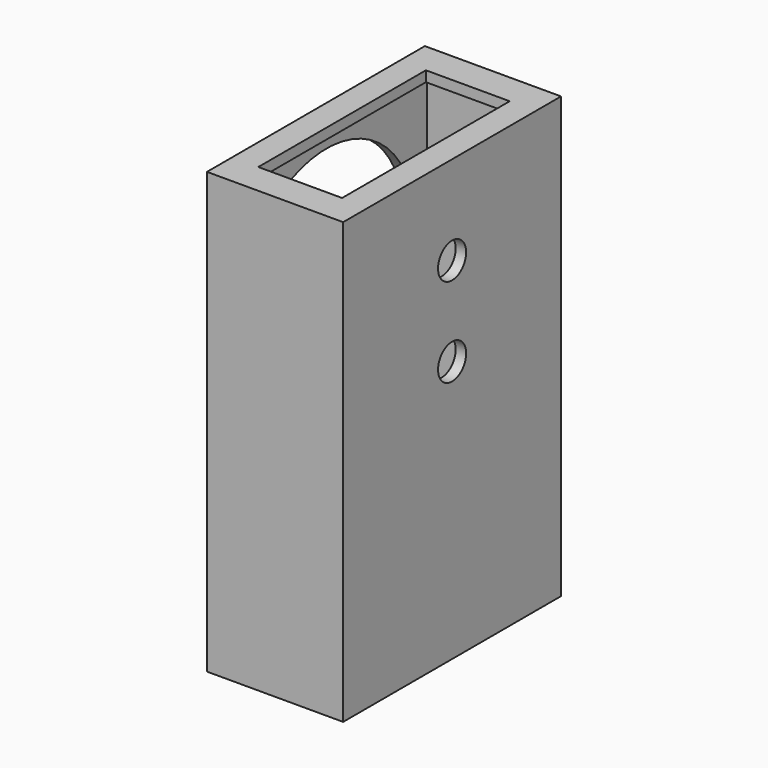
from build123d import *

# Parameters (mm, degrees)
F0_W      = 26
F0_H      = 52
F1_DEPTH  = 84
F2_T      = -2
F4_DEPTH  = 3
F5_R      = 3.35
F6_DEPTH  = 3
F7_W      = 13
F7_H      = 13
F8_DEPTH  = 3
F9_W      = 16
F9_H      = 40
F10_DEPTH = 25


with BuildPart() as f1:
    # F0 (on Top) → F1 (new body)
    with BuildSketch(Plane.XY):
        Rectangle(F0_W, F0_H)
    extrude(amount=F1_DEPTH)

    # F2
    f2_openings = [f1.faces().sort_by_distance(p)[0] for p in [
        (0, 0, 0),
    ]]
    offset(amount=F2_T, openings=f2_openings)

    # F3 (on face) → F4 (cut)
    with BuildSketch(Plane(origin=(-13, 0, 0), x_dir=(0, -1, 0), z_dir=(-1, 0, 0))):
        with BuildLine():
            ThreePointArc((-21, 57), (0, 36), (21, 57))
            ThreePointArc((21, 57), (0, 78), (-21, 57))
        make_face()
        with BuildLine():
            Line((21, 0), (21, 57))
            ThreePointArc((21, 57), (0, 36), (-21, 57))
            Line((-21, 57), (-21, 0))
            Line((-21, 0), (21, 0))
        make_face()
        with BuildLine():
            Line((21, 0), (21, 57))
            ThreePointArc((21, 57), (0, 36), (-21, 57))
            Line((-21, 57), (-21, 0))
            Line((-21, 0), (21, 0))
        make_face()
    extrude(amount=-F4_DEPTH, mode=Mode.SUBTRACT)

    # F5 (on face) → F6 (cut)
    with BuildSketch(Plane.YZ.offset(13)):
        with Locations((0, 67)):
            Circle(F5_R)
        with Locations((0, 50)):
            Circle(F5_R)
    extrude(amount=-F6_DEPTH, mode=Mode.SUBTRACT)

    # F7 (on face) → F8 (cut)
    with BuildSketch(Plane(origin=(-13, 0, 0), x_dir=(0, -1, 0), z_dir=(-1, 0, 0))):
        with Locations((0, 67)):
            Rectangle(F7_W, F7_H)
        with Locations((0, 50)):
            Rectangle(F7_W, F7_H)
    extrude(amount=-F8_DEPTH, mode=Mode.SUBTRACT)

    # F9 (on face) → F10 (cut)
    with BuildSketch(Plane.XY.offset(84)):
        Rectangle(F9_W, F9_H)
    extrude(amount=-F10_DEPTH, mode=Mode.SUBTRACT)


solid = f1.part
